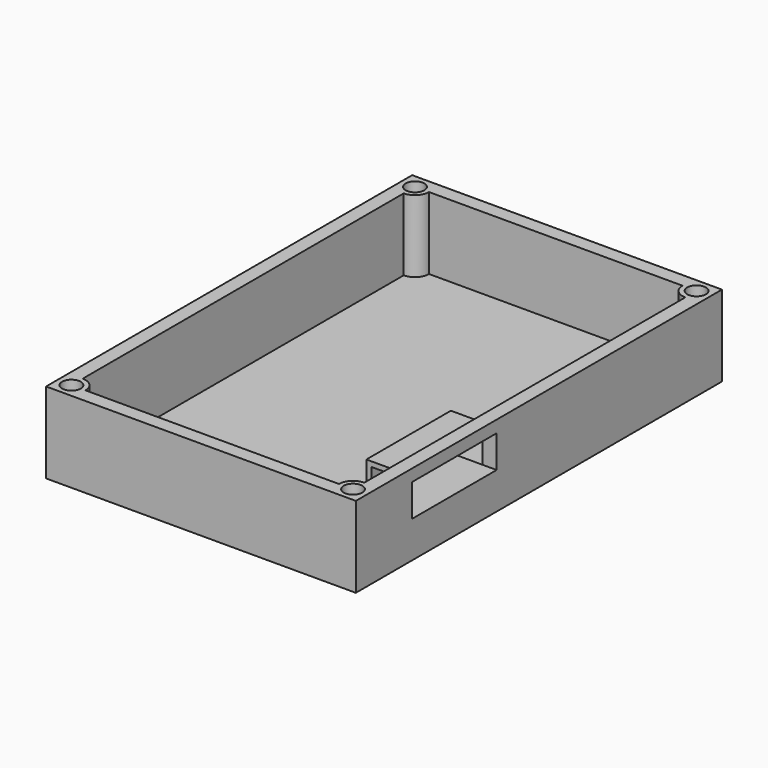
from build123d import *

# Parameters (mm, degrees)
F0_W      = 44
F0_H      = 65
F1_DEPTH  = 11.5
F2_W      = 40
F2_H      = 61
F3_DEPTH  = 10.25
F5_DEPTH  = 11
F6_R      = 1.325
F7_DEPTH  = 7
F10_W     = 15
F10_H     = 6
F11_DEPTH = 6.5
F12_W     = 7
F12_H     = 4.6
F13_DEPTH = 15


with BuildPart() as f1:
    # F0 (on Top) → F1 (new body)
    with BuildSketch(Plane.XY):
        Rectangle(F0_W, F0_H)
    extrude(amount=F1_DEPTH)

    # F2 (on face) → F3 (cut)
    with BuildSketch(Plane.XY.offset(11.5)):
        Rectangle(F2_W, F2_H)
    extrude(amount=-F3_DEPTH, mode=Mode.SUBTRACT)

    # F4 (on face) → F5 (join)
    with BuildSketch(Plane.XY.offset(11.5)):
        with BuildLine():
            Line((20, -30.5), (20, -28.5))
            ThreePointArc((20, -28.5), (18.5857864376, -29.0857864376), (18, -30.5))
            Line((18, -30.5), (20, -30.5))
        make_face()
        with BuildLine():
            ThreePointArc((-18, -30.5), (-18.5857864376, -29.0857864376), (-20, -28.5))
            Line((-20, -28.5), (-20, -30.5))
            Line((-20, -30.5), (-18, -30.5))
        make_face()
        with BuildLine():
            Line((20, 30.5), (18, 30.5))
            ThreePointArc((18, 30.5), (18.5857864376, 29.0857864376), (20, 28.5))
            Line((20, 28.5), (20, 30.5))
        make_face()
        with BuildLine():
            ThreePointArc((-20, 28.5), (-18.5857864376, 29.0857864376), (-18, 30.5))
            Line((-18, 30.5), (-20, 30.5))
            Line((-20, 30.5), (-20, 28.5))
        make_face()
    extrude(amount=-F5_DEPTH)

    # F6 (on face) → F7 (cut)
    with BuildSketch(Plane.XY.offset(11.5)):
        with Locations((-20, -30.5)):
            Circle(F6_R)
        with Locations((-20, 30.5)):
            Circle(F6_R)
        with Locations((20, 30.5)):
            Circle(F6_R)
        with Locations((20, -30.5)):
            Circle(F6_R)
    extrude(amount=-F7_DEPTH, mode=Mode.SUBTRACT)

    # F10 (on face) → F11 (join)
    with BuildSketch(Plane.YZ.offset(22)):
        with Locations((-15, 7.5)):
            Rectangle(F10_W, F10_H)
    extrude(amount=-F11_DEPTH)

    # F12 (on face) → F13 (cut)
    with BuildSketch(Plane(origin=(0, -7.5, 0), x_dir=(-1, 0, 0), z_dir=(0, 1, 0))):
        with Locations((-19.7, 7.5)):
            Rectangle(F12_W, F12_H)
    extrude(amount=-F13_DEPTH, mode=Mode.SUBTRACT)


solid = f1.part
